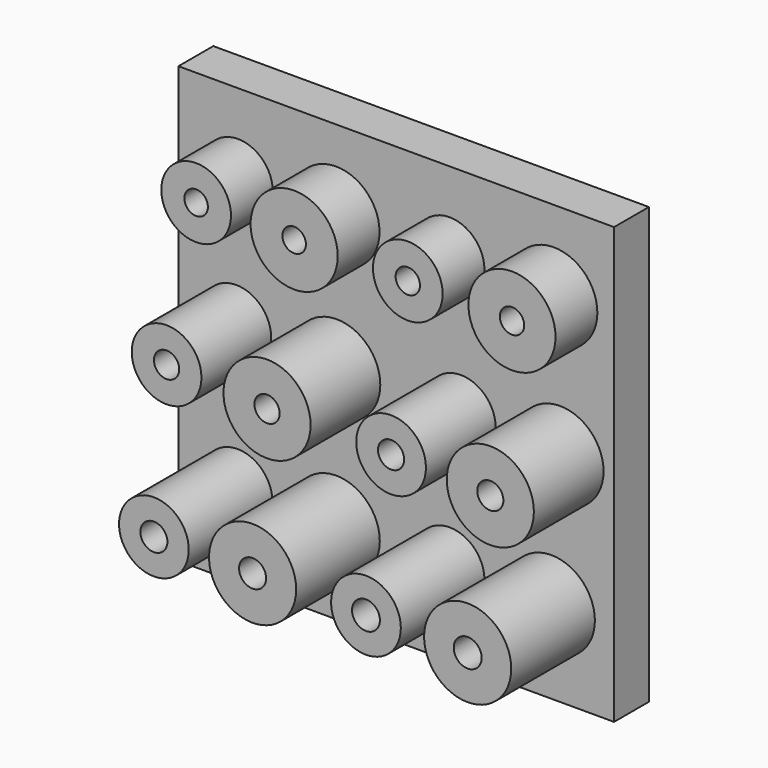
from build123d import *

# Parameters (mm, degrees)
F0_W     = 50
F0_H     = 50
F2_DEPTH = 5
F1_R     = 4
F1_R_2   = 1.35
F1_R_3   = 5
F1_R_4   = 1.4
F3_DEPTH = 6
F1_R_5   = 1.45
F1_R_6   = 1.5
F4_DEPTH = 10
F1_R_7   = 1.55
F1_R_8   = 1.6
F5_DEPTH = 12


with BuildPart() as f2:
    # F0 (on Front) → F2 (new body)
    with BuildSketch(Plane.XZ):
        Rectangle(F0_W, F0_H)
    extrude(amount=-F2_DEPTH)

    # F1 (on Front) → F3 (join)
    with BuildSketch(Plane.XZ):
        with Locations((-18.170596, 15.871764)):
            Circle(F1_R)
        with Locations((-18.170596, 15.871764)):
            Circle(F1_R_2, mode=Mode.SUBTRACT)
        with Locations((-6.920179, 15.756146)):
            Circle(F1_R_3)
        with Locations((-6.920179, 15.756146)):
            Circle(F1_R_2, mode=Mode.SUBTRACT)
        with Locations((6.124761, 15.85988)):
            Circle(F1_R)
        with Locations((6.124761, 15.85988)):
            Circle(F1_R_4, mode=Mode.SUBTRACT)
        with Locations((18.083698, 15.717511)):
            Circle(F1_R_3)
        with Locations((18.083698, 15.717511)):
            Circle(F1_R_4, mode=Mode.SUBTRACT)
    extrude(amount=F3_DEPTH)

    # F1 (on Front) → F4 (join)
    with BuildSketch(Plane.XZ):
        with Locations((-18.362585, 1.053578)):
            Circle(F1_R)
        with Locations((-18.362585, 1.053578)):
            Circle(F1_R_5, mode=Mode.SUBTRACT)
        with Locations((-6.830752, 0.341737)):
            Circle(F1_R_3)
        with Locations((-6.830752, 0.341737)):
            Circle(F1_R_5, mode=Mode.SUBTRACT)
        with Locations((7.406075, 0.341737)):
            Circle(F1_R)
        with Locations((7.406075, 0.341737)):
            Circle(F1_R_6, mode=Mode.SUBTRACT)
        with Locations((18.795539, -0.085368)):
            Circle(F1_R_3)
        with Locations((18.795539, -0.085368)):
            Circle(F1_R_6, mode=Mode.SUBTRACT)
    extrude(amount=F4_DEPTH)

    # F1 (on Front) → F5 (join)
    with BuildSketch(Plane.XZ):
        with Locations((-6.889718, -15.475452)):
            Circle(F1_R_3)
        with Locations((-6.889718, -15.475452)):
            Circle(F1_R_7, mode=Mode.SUBTRACT)
        with Locations((-18.220215, -15.475452)):
            Circle(F1_R)
        with Locations((-18.220215, -15.475452)):
            Circle(F1_R_7, mode=Mode.SUBTRACT)
        with Locations((6.124761, -15.475452)):
            Circle(F1_R)
        with Locations((6.124761, -15.475452)):
            Circle(F1_R_8, mode=Mode.SUBTRACT)
        with Locations((17.798963, -15.475452)):
            Circle(F1_R_3)
        with Locations((17.798963, -15.475452)):
            Circle(F1_R_8, mode=Mode.SUBTRACT)
    extrude(amount=F5_DEPTH)


solid = f2.part
